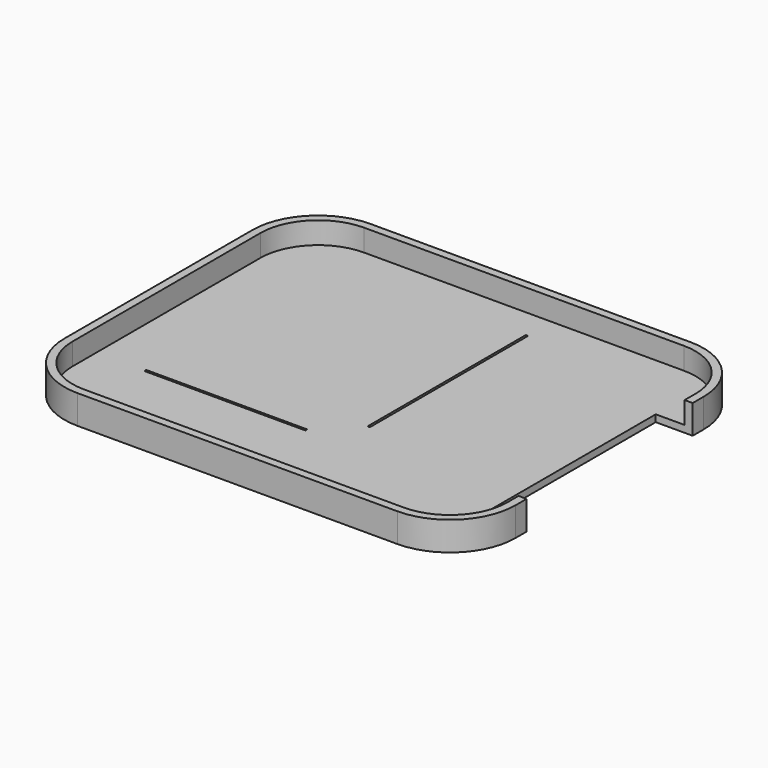
from build123d import *

# Parameters (mm, degrees)
PAD_DEPTH            = 1.9
THICKNESS_T          = 0.7
SKETCH001_W          = 18
SKETCH001_H          = 3
POCKET_DEPTH         = 1
POCKET_DEPTH_BACK    = 5
POCKET001_START      = -0.6
SKETCH002_W          = 49.648089
SKETCH002_H          = 49.770681
POCKET001_DEPTH      = 1.4
SKETCH011_W          = 18
SKETCH011_H          = 0.8
POCKET005_DEPTH      = 2.5
SKETCH035_W          = 17.144912
SKETCH035_H          = 0.2
SKETCH035_W_2        = 0.2
SKETCH035_H_2        = 13.969912
POCKET015_DEPTH      = 5
BODY_PLACEMENT_ANGLE = 270


with BuildPart() as part:
    # Sketch → Pad (new body)
    with BuildSketch(Plane.XY):
        with BuildLine():
            Line((-15.185, 13.864998), (-15.185, -13.864986))
            ThreePointArc((-15.185, -13.864986), (-13.720534, -17.40052), (-10.185, -18.864986))
            Line((-10.185, -18.864986), (10.184984, -18.864986))
            ThreePointArc((10.184984, -18.864986), (13.720524, -17.400521), (15.185, -13.864986))
            Line((15.185, 13.864998), (15.185, -13.864986))
            ThreePointArc((15.185, 13.864998), (13.720535, 17.400537), (10.185, 18.865014))
            Line((-10.184984, 18.865014), (10.185, 18.865014))
            ThreePointArc((-10.184984, 18.865014), (-13.720529, 17.400543), (-15.185, 13.864998))
        make_face()
    extrude(amount=PAD_DEPTH)

    # Thickness
    thickness_openings = [part.faces().sort_by_distance(p)[0] for p in [
        (0, 1.3e-05, 1.9),
    ]]
    offset(amount=THICKNESS_T, openings=thickness_openings, kind=Kind.INTERSECTION)

    # Sketch001 → Pocket (cut, two sides)
    with BuildSketch(Plane.XY) as pocket_sk:
        with Locations((0, 17.865014)):
            Rectangle(SKETCH001_W, SKETCH001_H)
    extrude(amount=POCKET_DEPTH, mode=Mode.SUBTRACT)
    extrude(pocket_sk.sketch, amount=-POCKET_DEPTH_BACK, mode=Mode.SUBTRACT)

    # Sketch002 → Pocket001 (cut)
    with BuildSketch(Plane.XY.offset(POCKET001_START)):
        with Locations((-0.449389, 1.150265)):
            Rectangle(SKETCH002_W, SKETCH002_H)
    extrude(amount=-POCKET001_DEPTH, mode=Mode.SUBTRACT)

    # Sketch011 → Pocket005 (cut, symmetric)
    with BuildSketch(Plane.XY):
        with Locations((0, 19.265014)):
            Rectangle(SKETCH011_W, SKETCH011_H)
    extrude(amount=POCKET005_DEPTH, both=True, mode=Mode.SUBTRACT)

    # Sketch035 → Pocket015 (cut)
    with BuildSketch(Plane.XY):
        with Locations((-4.004159, 2.3314)):
            Rectangle(SKETCH035_W, SKETCH035_H)
        with Locations((7.573341, -7.6586)):
            Rectangle(SKETCH035_W_2, SKETCH035_H_2)
    extrude(amount=-POCKET015_DEPTH, mode=Mode.SUBTRACT)


with BuildPart() as part_1:
    # Body placement: moved
    add(part.part.moved(Location((0.2, 12.9, 10))).rotate(Axis((0.2, 12.9, 10), (0, 0, 1)), BODY_PLACEMENT_ANGLE))


solid = part_1.part
